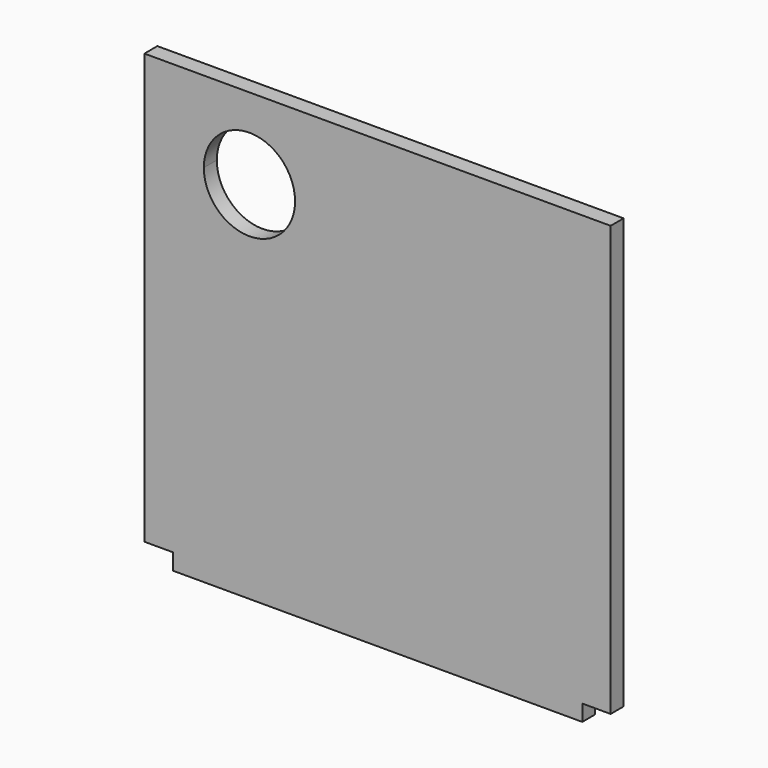
from build123d import *

# Parameters (mm, degrees)
F1_DEPTH = 5.08
F2_W     = 8.89
F2_H     = 5.08
F3_DEPTH = 5.08


with BuildPart() as f1:
    # F0 (on Front) → F1 (new body)
    with BuildSketch(Plane.XZ):
        with BuildLine():
            Line((146.05, 0), (32.91078, 0))
            Line((32.91078, 0), (32.91078, -11.1125))
            ThreePointArc((32.91078, -11.1125), (43.013568, -15.297212), (47.19828, -25.4))
            ThreePointArc((47.19828, -25.4), (32.91078, -39.6875), (18.62328, -25.4))
            Line((18.62328, -25.4), (0, -25.4))
            Line((0, -25.4), (0, -139.7))
            Line((0, -139.7), (146.05, -139.7))
            Line((146.05, -139.7), (146.05, 0))
        make_face()
        with BuildLine():
            Line((32.91078, 0), (0, 0))
            Line((0, 0), (0, -25.4))
            Line((0, -25.4), (18.62328, -25.4))
            ThreePointArc((18.62328, -25.4), (22.807992, -15.297212), (32.91078, -11.1125))
            Line((32.91078, -11.1125), (32.91078, 0))
        make_face()
    extrude(amount=F1_DEPTH)

    # F2 (on face) → F3 (cut)
    with BuildSketch(Plane(origin=(0, 0, -139.7), x_dir=(1, 0, 0), z_dir=(0, 0, -1))):
        with Locations((4.445, 2.54)):
            Rectangle(F2_W, F2_H)
        with Locations((141.605, 2.54)):
            Rectangle(F2_W, F2_H)
    extrude(amount=-F3_DEPTH, mode=Mode.SUBTRACT)


solid = f1.part
